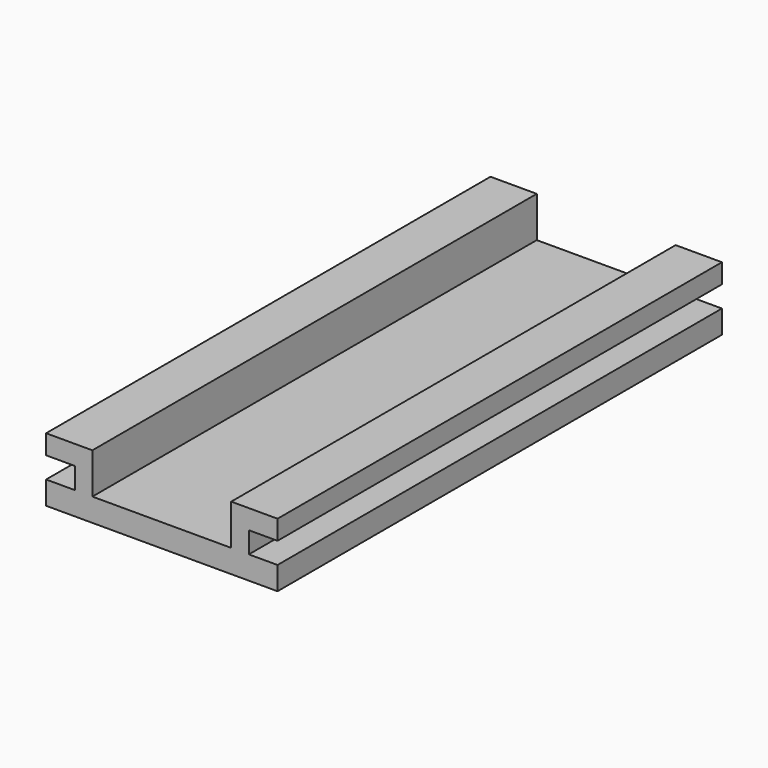
from build123d import *

# Parameters (mm, degrees)
F1_DEPTH = 76.2


with BuildPart() as f1:
    # F0 (on Front) → F1 (new body, symmetric)
    with BuildSketch(Plane.XZ):
        Polygon((-19.05, 0), (-31.75, 0), (-31.75, -5.334), (-23.876, -5.334), (-23.876, -11.176), (-31.75, -11.176), (-31.75, -17.526), (0, -17.526), (31.75, -17.526), (31.75, -11.176), (23.876, -11.176), (23.876, -5.334), (31.75, -5.334), (31.75, 0), (19.05, 0), (19.05, -11.176), (0, -11.176), (-19.05, -11.176), align=None)
    extrude(amount=F1_DEPTH, both=True)


solid = f1.part
